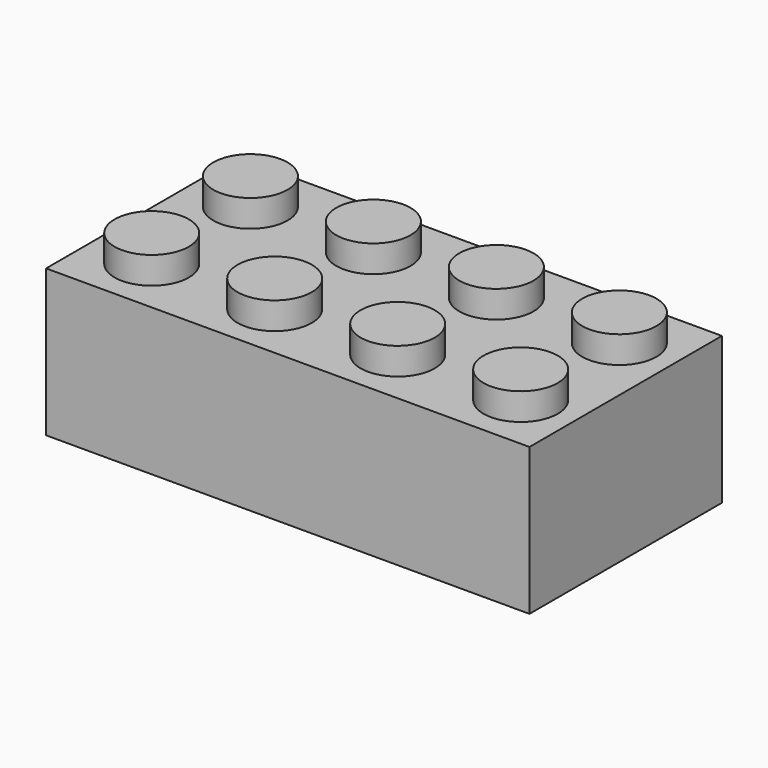
from build123d import *

# Parameters (mm, degrees)
F0_W     = 31.75
F0_H     = 9.652
F1_DEPTH = 15.7988
F2_R     = 2.4384
F3_DEPTH = 1.778
F4_W     = 29.3116
F4_H     = 13.3604
F4_R     = 3.2512
F4_R_2   = 2.4384
F5_DEPTH = 8.4328


with BuildPart() as f1:
    # F0 (on Front) → F1 (new body)
    with BuildSketch(Plane.XZ):
        with Locations((-15.875, -4.826)):
            Rectangle(F0_W, F0_H)
    extrude(amount=F1_DEPTH)

    # F2 (on face) → F3 (join)
    with BuildSketch(Plane.XY):
        with Locations((-27.8384, -3.9116)):
            Circle(F2_R)
        with Locations((-19.7612, -3.9116)):
            Circle(F2_R)
        with Locations((-11.684, -3.9116)):
            Circle(F2_R)
        with Locations((-3.6068, -3.9116)):
            Circle(F2_R)
        with Locations((-3.6068, -12.0142)):
            Circle(F2_R)
        with Locations((-11.684, -12.0142)):
            Circle(F2_R)
        with Locations((-19.7612, -12.0142)):
            Circle(F2_R)
        with Locations((-27.8384, -12.0142)):
            Circle(F2_R)
    extrude(amount=F3_DEPTH)

    # F4 (on face) → F5 (cut)
    with BuildSketch(Plane(origin=(0, 0, -9.652), x_dir=(1, 0, 0), z_dir=(0, 0, -1))):
        with Locations((-15.875, 7.8994)):
            Rectangle(F4_W, F4_H)
        with Locations((-23.8506, 7.8994)):
            Circle(F4_R, mode=Mode.SUBTRACT)
        with Locations((-15.8496, 7.8994)):
            Circle(F4_R, mode=Mode.SUBTRACT)
        with Locations((-7.8486, 7.8994)):
            Circle(F4_R, mode=Mode.SUBTRACT)
        with Locations((-23.8506, 7.8994)):
            Circle(F4_R_2)
        with Locations((-15.8496, 7.8994)):
            Circle(F4_R_2)
        with Locations((-7.8486, 7.8994)):
            Circle(F4_R_2)
    extrude(amount=-F5_DEPTH, mode=Mode.SUBTRACT)


solid = f1.part
